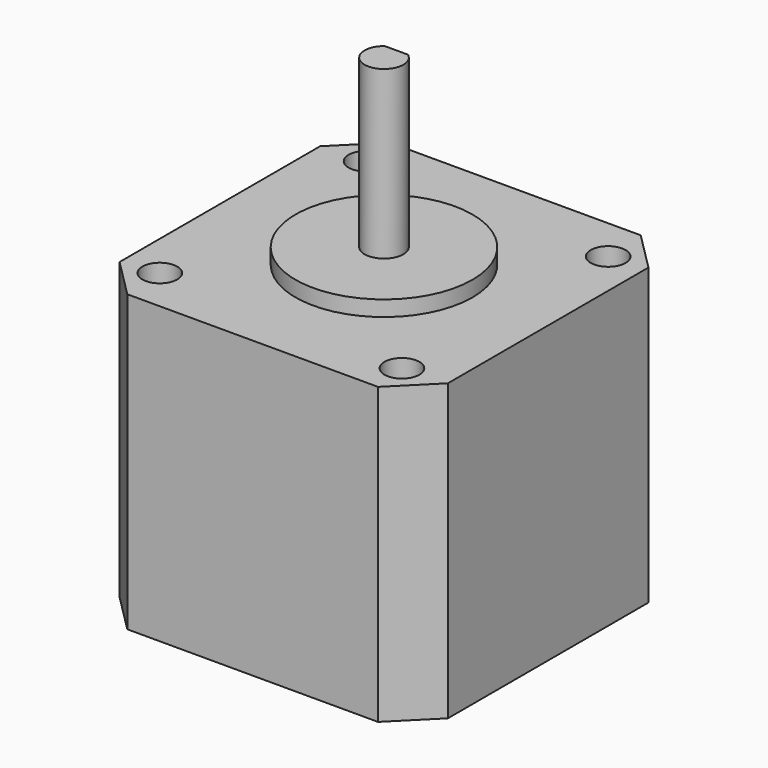
from build123d import *

# Parameters (mm, degrees)
SKETCH_W           = 42.3
SKETCH_H           = 42.3
PAD_DEPTH          = 38
SKETCH001_R        = 11.4
PAD001_DEPTH       = 40
SKETCH002_R        = 2.5
PAD002_DEPTH       = 61.5
CHAMFER_SIZE       = 5
SKETCH003_W        = 10
SKETCH003_H        = 3
POCKET_DEPTH       = 18
SKETCH004_W        = 16.2
SKETCH004_H        = 27.15
PAD003_DEPTH       = 9.4
SKETCH005_R        = 2.25
POCKET001_DEPTH    = 4.5
POLARPATTERN_COUNT = 4


with BuildPart() as part:
    # Sketch → Pad (new body)
    with BuildSketch(Plane.XY):
        Rectangle(SKETCH_W, SKETCH_H)
    extrude(amount=PAD_DEPTH)

    # Sketch001 → Pad001 (join)
    with BuildSketch(Plane.XY):
        Circle(SKETCH001_R)
    extrude(amount=PAD001_DEPTH)

    # Sketch002 → Pad002 (join)
    with BuildSketch(Plane.XY):
        Circle(SKETCH002_R)
    extrude(amount=PAD002_DEPTH)

    # Chamfer
    chamfer_edges = [part.edges().sort_by_distance(p)[0] for p in [
        (-21.15, 21.15, 19),
        (-21.15, -21.15, 19),
        (21.15, 21.15, 19),
        (21.15, -21.15, 19),
    ]]
    chamfer(chamfer_edges, length=CHAMFER_SIZE)

    # Sketch003 (on Face16 of Chamfer) → Pocket (cut)
    with BuildSketch(Plane.XY.offset(61.5)):
        with Locations((0, 3.5)):
            Rectangle(SKETCH003_W, SKETCH003_H)
    extrude(amount=-POCKET_DEPTH, mode=Mode.SUBTRACT)

    # Sketch004 → Pad003 (join)
    with BuildSketch(Plane.XY):
        with Locations((0, 13.575)):
            Rectangle(SKETCH004_W, SKETCH004_H)
    extrude(amount=PAD003_DEPTH)

    # Sketch005 (on Face5 of Pad003) → Pocket001 (cut)
    with BuildSketch(Plane.XY.offset(38)):
        with Locations((-15.5, 16.484926)):
            Circle(SKETCH005_R)
    pocket001 = extrude(amount=-POCKET001_DEPTH, mode=Mode.SUBTRACT)

    # PolarPattern: Pocket001 ×4 about axis
    polarpattern_axis = Axis((0, 0, 38), (0, 0, 1))
    for i in range(1, POLARPATTERN_COUNT):
        add(pocket001.rotate(polarpattern_axis, i * 360 / POLARPATTERN_COUNT), mode=Mode.SUBTRACT)


solid = part.part
